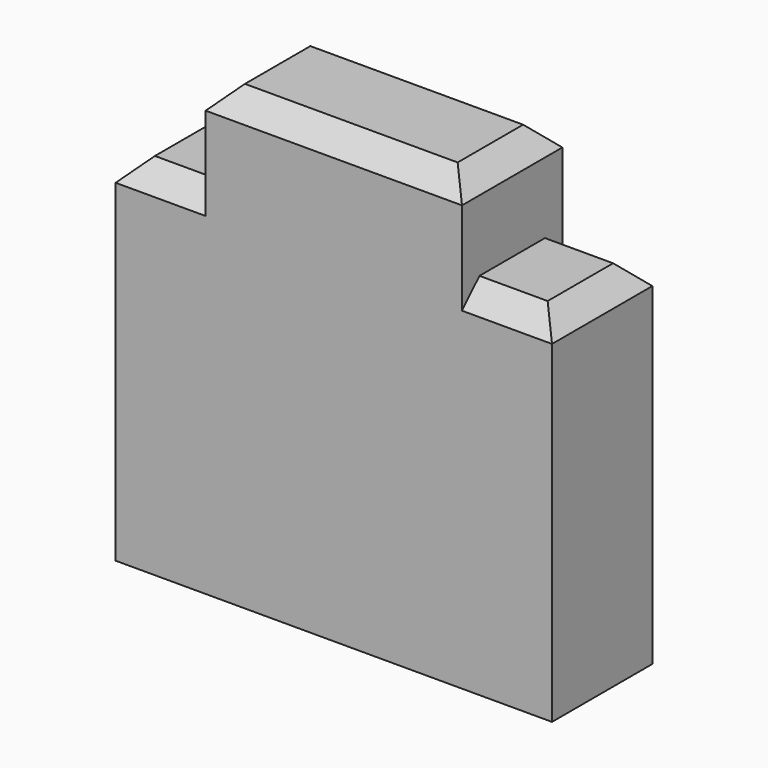
from build123d import *

# Parameters (mm, degrees)
SKETCH008_W     = 4
SKETCH008_H     = 1.15
PAD005_DEPTH    = 4.1
SKETCH009_W     = 0.825
SKETCH009_H     = 0.85
POCKET002_DEPTH = 5
CHAMFER005_SIZE = 0.2


with BuildPart() as part:
    # Sketch008 → Pad005 (new body)
    with BuildSketch(Plane.XY):
        Rectangle(SKETCH008_W, SKETCH008_H)
    extrude(amount=PAD005_DEPTH)

    # Sketch009 (on Face1 of Pad005) → Pocket002 (cut)
    with BuildSketch(Plane(origin=(0, 0.575, 0), x_dir=(-1, 0, 0), z_dir=(0, 1, 0))):
        with Locations((-1.5875, 3.675)):
            Rectangle(SKETCH009_W, SKETCH009_H)
        with Locations((1.5875, 3.675)):
            Rectangle(SKETCH009_W, SKETCH009_H)
    extrude(amount=-POCKET002_DEPTH, mode=Mode.SUBTRACT)

    # Chamfer005
    chamfer005_edges = [part.edges().sort_by_distance(p)[0] for p in [
        (0, 0.575, 4.1),
        (0, -0.575, 4.1),
        (1.5875, 0.575, 3.25),
        (-1.5875, 0.575, 3.25),
        (-1.5875, -0.575, 3.25),
        (1.5875, -0.575, 3.25),
        (2, 0, 3.25),
        (-2, 0, 3.25),
        (1.175, 0, 4.1),
        (-1.175, 0, 4.1),
    ]]
    chamfer(chamfer005_edges, length=CHAMFER005_SIZE)


with BuildPart() as part_1:
    # Body048 placement: moved
    add(part.part.moved(Location((0, 84, 0))))


solid = part_1.part
